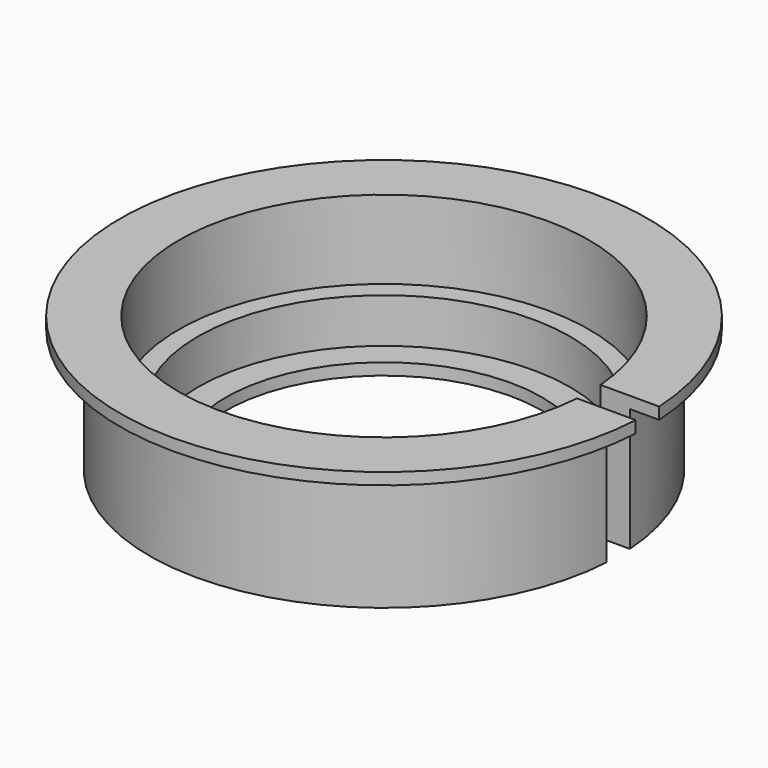
from build123d import *

# Parameters (mm, degrees)
F0_R      = 45
F1_DEPTH  = 23
F2_R      = 35
F3_DEPTH  = 13.4
F4_R      = 31.75
F5_DEPTH  = 7.6
F6_R      = 27
F7_DEPTH  = 2.001
F8_R      = 45
F8_R_2    = 40
F9_DEPTH  = 21
F10_W     = 30
F10_H     = 5
F11_DEPTH = 23.001


with BuildPart() as f1:
    # F0 (on Top) → F1 (new body)
    with BuildSketch(Plane.XY):
        Circle(F0_R)
    extrude(amount=F1_DEPTH)

    # F2 (on face) → F3 (cut)
    with BuildSketch(Plane.XY.offset(23)):
        Circle(F2_R)
    extrude(amount=-F3_DEPTH, mode=Mode.SUBTRACT)

    # F4 (on face) → F5 (cut)
    with BuildSketch(Plane.XY.offset(9.6)):
        Circle(F4_R)
    extrude(amount=-F5_DEPTH, mode=Mode.SUBTRACT)

    # F6 (on face) → F7 (cut, through all)
    with BuildSketch(Plane.XY.offset(2)):
        Circle(F6_R)
    extrude(amount=-F7_DEPTH, mode=Mode.SUBTRACT)

    # F8 (on face) → F9 (cut)
    with BuildSketch(Plane(origin=(0, 0, 0), x_dir=(1, 0, 0), z_dir=(0, 0, -1))):
        Circle(F8_R)
        Circle(F8_R_2, mode=Mode.SUBTRACT)
    extrude(amount=-F9_DEPTH, mode=Mode.SUBTRACT)

    # F10 (on face) → F11 (cut, through all)
    with BuildSketch(Plane.XY.offset(23)):
        with Locations((35, 0)):
            Rectangle(F10_W, F10_H)
    extrude(amount=-F11_DEPTH, mode=Mode.SUBTRACT)


solid = f1.part
